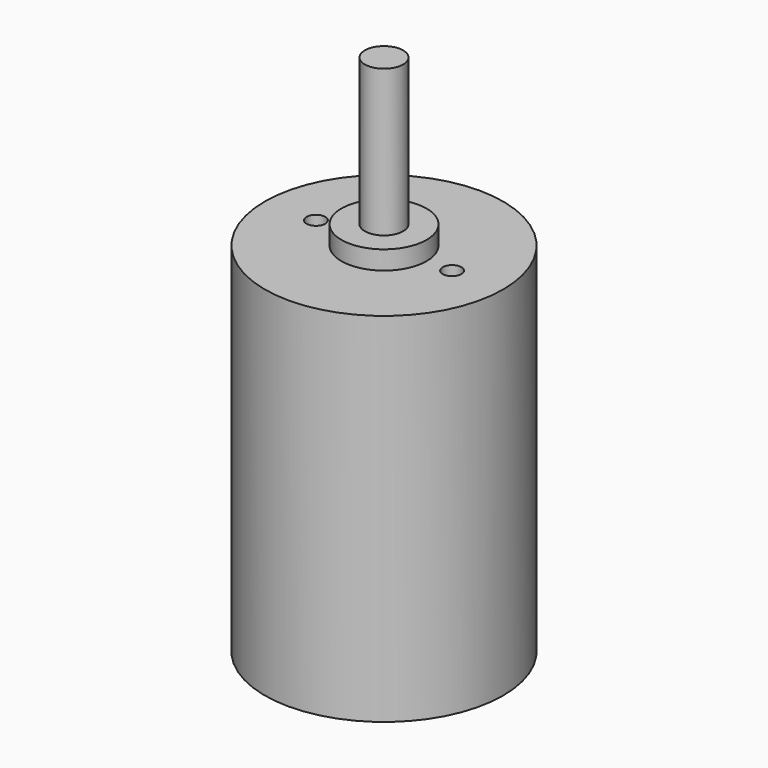
from build123d import *

# Parameters (mm, degrees)
F0_R     = 14
F1_DEPTH = 42
F2_R     = 5
F3_DEPTH = 2.2
F4_R     = 2.25
F5_DEPTH = 17.25
F6_D     = 2.2
F6_DEPTH = 4
F6_TIP   = 0.6609466809


with BuildPart() as f1:
    # F0 (on Top) → F1 (new body)
    with BuildSketch(Plane.XY):
        Circle(F0_R)
    extrude(amount=F1_DEPTH)

    # F2 (on face) → F3 (join)
    with BuildSketch(Plane.XY.offset(42)):
        Circle(F2_R)
    extrude(amount=F3_DEPTH)

    # F4 (on face) → F5 (join)
    with BuildSketch(Plane.XY.offset(44.2)):
        Circle(F4_R)
    extrude(amount=F5_DEPTH)

    # F6
    with Locations(Plane.XY.offset(42)):
        with Locations((-8, 0), (8, 0)):
            Hole(F6_D / 2, depth=F6_DEPTH)
            with Locations((0, 0, -(F6_DEPTH + F6_TIP / 2))):  # 118° drill point
                Cone(0, F6_D / 2, F6_TIP, mode=Mode.SUBTRACT)


solid = f1.part
